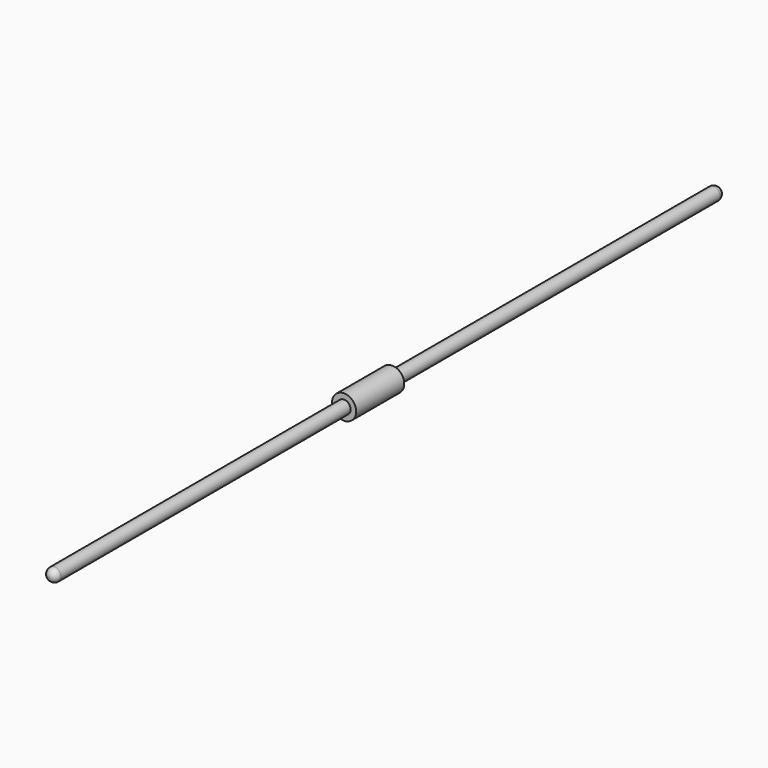
from build123d import *

# Parameters (mm, degrees)
F0_W   = 7.4696950614
F0_H   = 463.2615456358
F0_H_2 = 418.1851856411
F2_R   = 7.3


with BuildPart() as f1:
    # F0 (on Top) → F1 (revolve)
    with BuildSketch(Plane.XY):
        Polygon((-7.4696950614, 11.5808835253), (-13.7188918889, 11.5808835253), (-13.7188918889, -56.65724352), (-7.4696950614, -56.65724352), (0, -56.65724352), (0, 11.5808835253), align=None)
        with Locations((-3.7348475307, 243.2116563432)):
            Rectangle(F0_W, F0_H)
        with Locations((-3.7348475307, -265.7498363405)):
            Rectangle(F0_W, F0_H_2)
    revolve(axis=Axis((0, 0, 0), (0, -1, 0)))

    # F2
    f2_edges = [f1.edges().sort_by_distance(p)[0] for p in [
        (7.469695, 474.842429, 0),
        (7.469695, -474.842429, 0),
    ]]
    fillet(f2_edges, radius=F2_R)


solid = f1.part
